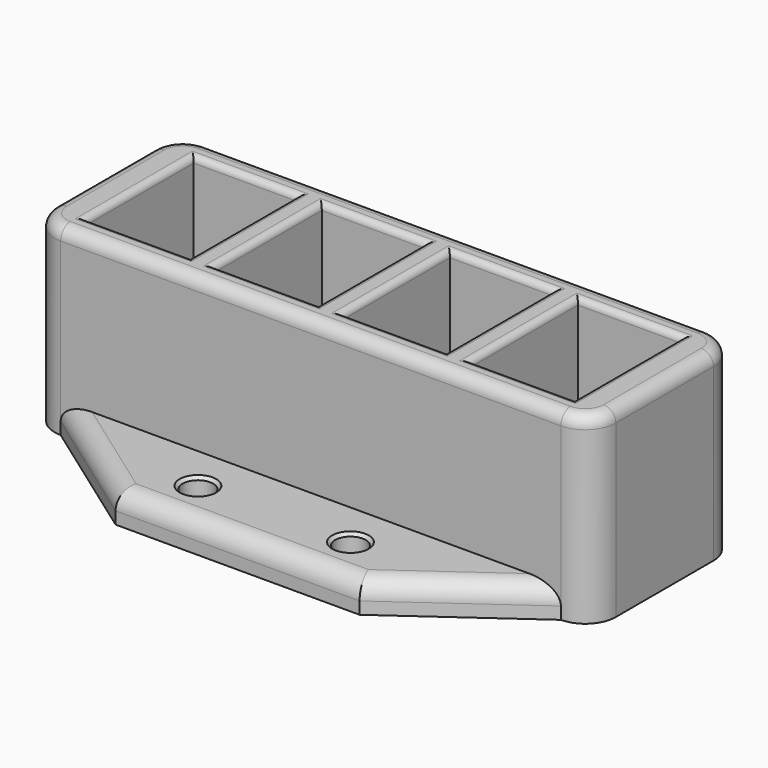
from build123d import *

# Parameters (mm, degrees)
F0_W     = 92
F0_H     = 30
F0_W_2   = 17
F0_H_2   = 22
F1_DEPTH = 30
F2_R     = 5
F3_R     = 2
F4_R     = 1
F5_W     = 1.5
F5_H     = 2
F6_DEPTH = 2
F7_SIZE  = 1
F8_W     = 40
F8_H     = 15
F8_R     = 2.5
F9_DEPTH = 5
F10_R    = 3
F11_SIZE = 0.5


with BuildPart() as f1:
    # F0 (on Top) → F1 (new body)
    with BuildSketch(Plane.XY):
        with Locations((-18.263159, 15)):
            Rectangle(F0_W, F0_H)
        with Locations((-49.763159, 15)):
            Rectangle(F0_W_2, F0_H_2, mode=Mode.SUBTRACT)
        with Locations((-28.763159, 15)):
            Rectangle(F0_W_2, F0_H_2, mode=Mode.SUBTRACT)
        with Locations((-7.763159, 15)):
            Rectangle(F0_W_2, F0_H_2, mode=Mode.SUBTRACT)
        with Locations((13.236841, 15)):
            Rectangle(F0_W_2, F0_H_2, mode=Mode.SUBTRACT)
    extrude(amount=F1_DEPTH)

    # F2
    f2_edges = [f1.edges().sort_by_distance(p)[0] for p in [
        (27.736841, 0, 15),
        (27.736841, 30, 15),
        (-64.263159, 0, 15),
        (-64.263159, 30, 15),
    ]]
    fillet(f2_edges, radius=F2_R)

    # F3
    f3_edges = [f1.edges().sort_by_distance(p)[0] for p in [
        (-18.263159, 0, 30),
        (-18.263159, 30, 30),
    ]]
    fillet(f3_edges, radius=F3_R)

    # F4
    f4_edges = [f1.edges().sort_by_distance(p)[0] for p in [
        (-58.263159, 15, 30),
        (-49.763159, 4, 30),
        (-41.263159, 15, 30),
        (-49.763159, 26, 30),
        (-37.263159, 15, 30),
        (-28.763159, 26, 30),
        (-20.263159, 15, 30),
        (-28.763159, 4, 30),
        (-16.263159, 15, 30),
        (-7.763159, 26, 30),
        (0.736841, 15, 30),
        (-7.763159, 4, 30),
        (4.736841, 15, 30),
        (13.236841, 26, 30),
        (21.736841, 15, 30),
        (13.236841, 4, 30),
    ]]
    fillet(f4_edges, radius=F4_R)

    # F5 (on face) → F6 (join)
    with BuildSketch(Plane(origin=(0, 0, 0), x_dir=(1, 0, 0), z_dir=(0, 0, -1))):
        with Locations((-57.513159, -15)):
            Rectangle(F5_W, F5_H)
        with Locations((-36.513159, -15)):
            Rectangle(F5_W, F5_H)
        with Locations((-15.513159, -15)):
            Rectangle(F5_W, F5_H)
        with Locations((5.486841, -15)):
            Rectangle(F5_W, F5_H)
    extrude(amount=-F6_DEPTH)

    # F7
    f7_edges = [f1.edges().sort_by_distance(p)[0] for p in [
        (-56.763159, 15, 0),
        (-35.763159, 15, 0),
        (-14.763159, 15, 0),
        (6.236841, 15, 0),
    ]]
    chamfer(f7_edges, length=F7_SIZE)

    # F8 (on face) → F9 (join)
    with BuildSketch(Plane(origin=(0, 0, 0), x_dir=(1, 0, 0), z_dir=(0, 0, -1))):
        with Locations((-18.263159, 7.5)):
            Rectangle(F8_W, F8_H)
        with Locations((-30.763159, 7.5)):
            Circle(F8_R, mode=Mode.SUBTRACT)
        with Locations((-5.763159, 7.5)):
            Circle(F8_R, mode=Mode.SUBTRACT)
        Polygon((-59.263159, 0), (-38.263159, 0), (-38.263159, 15), align=None)
        Polygon((1.736841, 15), (1.736841, 0), (22.736841, 0), align=None)
        with Locations((-18.263159, -37.5)):
            Rectangle(F8_W, F8_H)
        with Locations((-30.763159, -37.5)):
            Circle(F8_R, mode=Mode.SUBTRACT)
        with Locations((-5.763159, -37.5)):
            Circle(F8_R, mode=Mode.SUBTRACT)
        Polygon((22.736841, -30), (1.736841, -30), (1.736841, -45), align=None)
        Polygon((-38.263159, -45), (-38.263159, -30), (-59.263159, -30), align=None)
    extrude(amount=-F9_DEPTH)

    # F10
    f10_edges = [f1.edges().sort_by_distance(p)[0] for p in [
        (12.236841, -7.5, 5),
        (-18.263159, -15, 5),
        (-48.763159, -7.5, 5),
        (12.236841, 37.5, 5),
        (-18.263159, 45, 5),
        (-48.763159, 37.5, 5),
    ]]
    fillet(f10_edges, radius=F10_R)

    # F11
    f11_edges = [f1.edges().sort_by_distance(p)[0] for p in [
        (-8.263159, 37.5, 5),
        (-33.263159, 37.5, 5),
        (-8.263159, -7.5, 5),
        (-33.263159, -7.5, 5),
    ]]
    chamfer(f11_edges, length=F11_SIZE)


solid = f1.part
